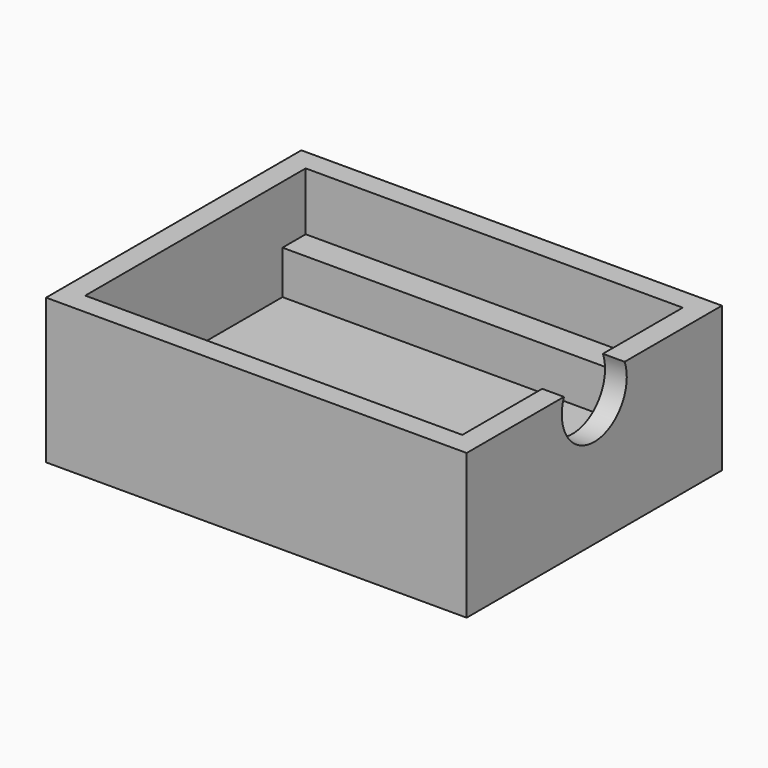
from build123d import *

# Parameters (mm, degrees)
SKETCH_W        = 29
SKETCH_H        = 22
PAD_DEPTH       = 10
SKETCH001_W     = 26
SKETCH001_H     = 15
POCKET_DEPTH    = 7
SKETCH002_W     = 26
SKETCH002_H     = 19
POCKET001_DEPTH = 4
POCKET002_DEPTH = 1.5


with BuildPart() as part:
    # Sketch → Pad (new body)
    with BuildSketch(Plane.XY):
        Rectangle(SKETCH_W, SKETCH_H)
    extrude(amount=PAD_DEPTH)

    # Sketch001 → Pocket (cut)
    with BuildSketch(Plane.XY.offset(10)):
        Rectangle(SKETCH001_W, SKETCH001_H)
    extrude(amount=-POCKET_DEPTH, mode=Mode.SUBTRACT)

    # Sketch002 → Pocket001 (cut)
    with BuildSketch(Plane.XY.offset(10)):
        Rectangle(SKETCH002_W, SKETCH002_H)
    extrude(amount=-POCKET001_DEPTH, mode=Mode.SUBTRACT)

    # Sketch003 → Pocket002 (cut)
    with BuildSketch(Plane.YZ.offset(14.5)):
        with BuildLine():
            ThreePointArc((-2.615339, 10), (0, 6.2), (2.615339, 10))
            Line((-2.615339, 10), (2.615339, 10))
        make_face()
    extrude(amount=-POCKET002_DEPTH, mode=Mode.SUBTRACT)


solid = part.part
